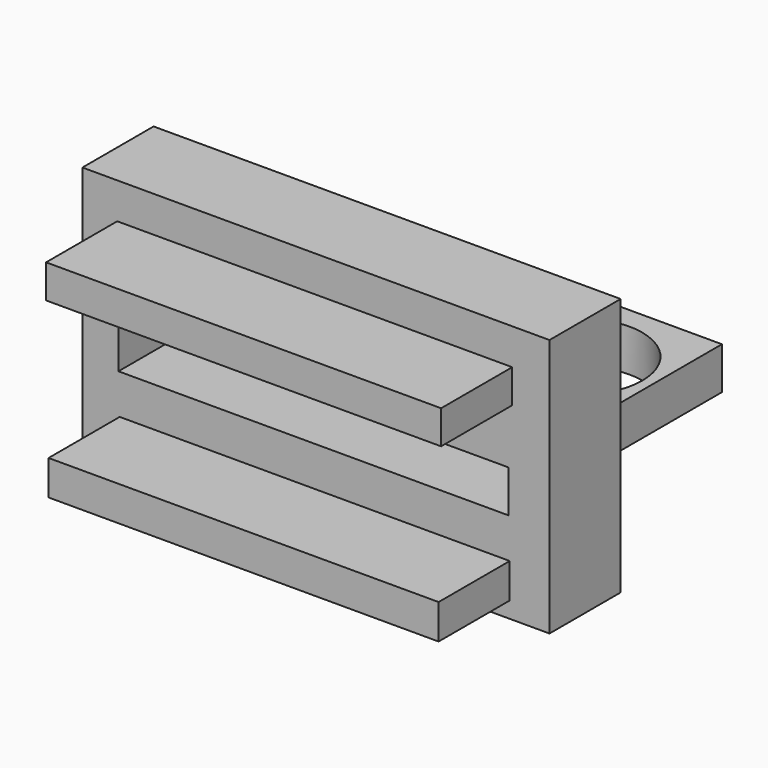
from build123d import *

# Parameters (mm, degrees)
F0_W     = 66.7045712471
F0_H     = 36.9003992528
F0_W_2   = 55.7054132223
F0_H_2   = 4.9673607573
F0_W_3   = 55.705409497
F0_H_3   = 6.0317961033
F0_R     = 2.9212433218
F0_W_4   = 56.415034458
F0_H_4   = 4.789955914
F1_DEPTH = 12.7
F2_DEPTH = 25.4
F3_DEPTH = 25.4
F4_R     = 9.3091
F5_DEPTH = 25.4
F6_DEPTH = 7.12812


with BuildPart() as f1:
    # F0 (on Front) → F1 (new body)
    with BuildSketch(Plane.XZ):
        with Locations((1.7740577459, 2.483679913)):
            Rectangle(F0_W, F0_H)
        with Locations((1.596653834, -11.1765633337)):
            Rectangle(F0_W_2, F0_H_2, mode=Mode.SUBTRACT)
        with Locations((1.4192461967, 1.164e-07)):
            Rectangle(F0_W_3, F0_H_3, mode=Mode.SUBTRACT)
        with Locations((1.4192461967, 6.4079510048)):
            Circle(F0_R, mode=Mode.SUBTRACT)
        with Locations((1.5966529027, 13.3941359818)):
            Rectangle(F0_W_4, F0_H_4, mode=Mode.SUBTRACT)
    extrude(amount=F1_DEPTH)

    # F0 (on Front) → F2 (join)
    with BuildSketch(Plane.XZ):
        with Locations((1.5966529027, 13.3941359818)):
            Rectangle(F0_W_4, F0_H_4)
        with Locations((1.596653834, -11.1765633337)):
            Rectangle(F0_W_2, F0_H_2)
    extrude(amount=F2_DEPTH)

    # F0 (on Front) → F6 (cut)
    with BuildSketch(Plane.XZ):
        with Locations((1.4192461967, 6.4079510048)):
            Circle(F0_R)
    extrude(amount=-F6_DEPTH, mode=Mode.SUBTRACT)


with BuildPart() as f3:
    # F0 (on Front) → F3 (new body)
    with BuildSketch(Plane.XZ):
        with Locations((1.4192461967, 1.164e-07)):
            Rectangle(F0_W_3, F0_H_3)
    extrude(amount=-F3_DEPTH)

    # F4 (on face) → F5 (cut)
    with BuildSketch(Plane.XY.offset(3.0158981681)):
        with Locations((18.5197732105, 12.978198365)):
            Circle(F4_R)
        with Locations((-11.2756254383, 12.9530187696)):
            Circle(F4_R)
    extrude(amount=-F5_DEPTH, mode=Mode.SUBTRACT)


solid = Compound([f1.part, f3.part])
